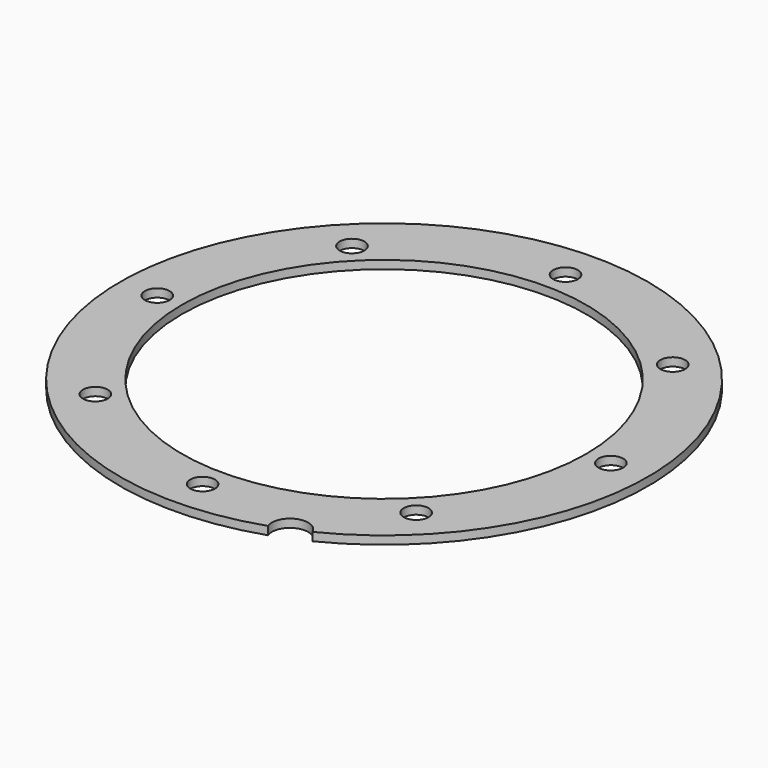
from build123d import *

# Parameters (mm, degrees)
CYLINDER1301_R               = 1.5
CYLINDER1301_DEPTH           = 20
CYLINDER1301_PLACEMENT_ANGLE = 45
CYLINDER1300_R               = 1.5
CYLINDER1300_DEPTH           = 20
CYLINDER1296_R               = 1.5
CYLINDER1296_DEPTH           = 20
CYLINDER1296_PLACEMENT_ANGLE = 135
CYLINDER1298_R               = 1.5
CYLINDER1298_DEPTH           = 20
CYLINDER1302_R               = 1.5
CYLINDER1302_DEPTH           = 20
CYLINDER1299_R               = 1.5
CYLINDER1299_DEPTH           = 20
CYLINDER1299_PLACEMENT_ANGLE = 225
CYLINDER1297_R               = 1.5
CYLINDER1297_DEPTH           = 20
CYLINDER1297_PLACEMENT_ANGLE = 45
CYLINDER1295_R               = 1.5
CYLINDER1295_DEPTH           = 20
CYLINDER1306_R               = 2.2
CYLINDER1306_DEPTH           = 15
CYLINDER1306_PLACEMENT_ANGLE = 22.5
TUBE054_R                    = 32
TUBE054_R_2                  = 24.5
TUBE054_DEPTH                = 1


with BuildPart() as obj1:
    # Cylinder1301 → Cylinder1301 (new body)
    with BuildSketch(Plane.XY):
        Circle(CYLINDER1301_R)
    extrude(amount=CYLINDER1301_DEPTH)


with BuildPart() as obj1_1:
    # Cylinder1301 placement: moved
    add(obj1.part.moved(Location((-19.445436, 19.445436, 10))).rotate(Axis((-19.445436, 19.445436, 10), (0, 0, 1)), CYLINDER1301_PLACEMENT_ANGLE))


with BuildPart() as obj2:
    # Cylinder1300 → Cylinder1300 (new body)
    with BuildSketch(Plane(origin=(-27.5, 0, 10), x_dir=(0, 1, 0), z_dir=(0, 0, 1))):
        Circle(CYLINDER1300_R)
    extrude(amount=CYLINDER1300_DEPTH)


with BuildPart() as obj3:
    # Cylinder1296 → Cylinder1296 (new body)
    with BuildSketch(Plane.XY):
        Circle(CYLINDER1296_R)
    extrude(amount=CYLINDER1296_DEPTH)


with BuildPart() as obj3_1:
    # Cylinder1296 placement: moved
    add(obj3.part.moved(Location((-19.445436, -19.445436, 10))).rotate(Axis((-19.445436, -19.445436, 10), (0, 0, 1)), CYLINDER1296_PLACEMENT_ANGLE))


with BuildPart() as obj4:
    # Cylinder1298 → Cylinder1298 (new body)
    with BuildSketch(Plane(origin=(0, -27.5, 10), x_dir=(-1, 0, 0), z_dir=(0, 0, 1))):
        Circle(CYLINDER1298_R)
    extrude(amount=CYLINDER1298_DEPTH)


with BuildPart() as obj5:
    # Cylinder1302 → Cylinder1302 (new body)
    with BuildSketch(Plane(origin=(27.5, 0, 10), x_dir=(0, -1, 0), z_dir=(0, 0, 1))):
        Circle(CYLINDER1302_R)
    extrude(amount=CYLINDER1302_DEPTH)


with BuildPart() as obj6:
    # Cylinder1299 → Cylinder1299 (new body)
    with BuildSketch(Plane.XY):
        Circle(CYLINDER1299_R)
    extrude(amount=CYLINDER1299_DEPTH)


with BuildPart() as obj6_1:
    # Cylinder1299 placement: moved
    add(obj6.part.moved(Location((19.445436, -19.445436, 10))).rotate(Axis((19.445436, -19.445436, 10), (0, 0, 1)), CYLINDER1299_PLACEMENT_ANGLE))


with BuildPart() as obj7:
    # Cylinder1297 → Cylinder1297 (new body)
    with BuildSketch(Plane.XY):
        Circle(CYLINDER1297_R)
    extrude(amount=CYLINDER1297_DEPTH)


with BuildPart() as obj7_1:
    # Cylinder1297 placement: moved
    add(obj7.part.moved(Location((19.445436, 19.445436, 10))).rotate(Axis((19.445436, 19.445436, 10), (0, 0, -1)), CYLINDER1297_PLACEMENT_ANGLE))


with BuildPart() as compound:
    # Cylinder1295 → Cylinder1295 (new body)
    with BuildSketch(Plane(origin=(0, 27.5, 10), x_dir=(1, 0, 0), z_dir=(0, 0, 1))):
        Circle(CYLINDER1295_R)
    extrude(amount=CYLINDER1295_DEPTH)

    # Compound: union obj1, obj2, obj3, obj4, obj5, obj6, obj7
    add(obj1_1.part)
    add(obj2.part)
    add(obj3_1.part)
    add(obj4.part)
    add(obj5.part)
    add(obj6_1.part)
    add(obj7_1.part)


with BuildPart() as obj8:
    # Cylinder1306 → Cylinder1306 (new body)
    with BuildSketch(Plane.XY):
        Circle(CYLINDER1306_R)
    extrude(amount=CYLINDER1306_DEPTH)


with BuildPart() as obj8_1:
    # Cylinder1306 placement: moved
    add(obj8.part.moved(Location((12.24587, -29.564145, 20))).rotate(Axis((12.24587, -29.564145, 20), (0, 0, 1)), CYLINDER1306_PLACEMENT_ANGLE))


with BuildPart() as cut492:
    # Tube054 → Tube054 (new body)
    with BuildSketch(Plane.XY.offset(25)):
        Circle(TUBE054_R)
        Circle(TUBE054_R_2, mode=Mode.SUBTRACT)
    extrude(amount=TUBE054_DEPTH)

    # Cut497: cut obj8
    add(obj8_1.part, mode=Mode.SUBTRACT)

    # Cut492: cut Compound
    add(compound.part, mode=Mode.SUBTRACT)


solid = cut492.part
